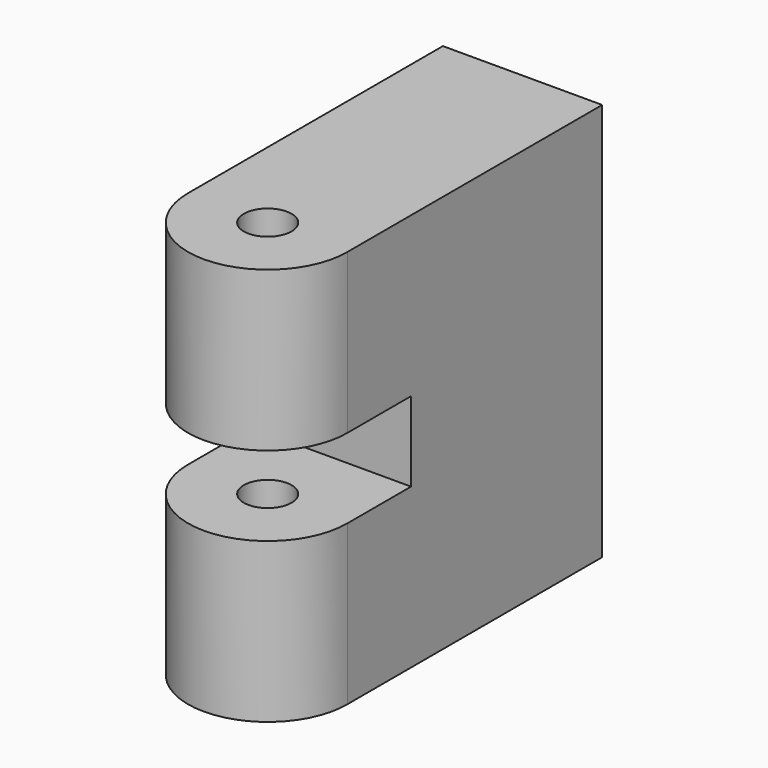
from build123d import *

# Parameters (mm, degrees)
F1_DEPTH = 25
F2_W     = 15
F2_H     = 5
F3_DEPTH = 12.5


with BuildPart() as f1:
    # F0 (on Top) → F1 (new body)
    with BuildSketch(Plane.XY):
        with BuildLine():
            Line((1.5, 0), (5, 0))
            ThreePointArc((5, 0), (0, 5), (-5, 0))
            Line((-5, 0), (-1.5, 0))
            ThreePointArc((-1.5, 0), (0, 1.5), (1.5, 0))
        make_face()
        with BuildLine():
            ThreePointArc((-5, 0), (0, -5), (5, 0))
            Line((5, 0), (1.5, 0))
            ThreePointArc((1.5, 0), (0, -1.5), (-1.5, 0))
            Line((-1.5, 0), (-5, 0))
        make_face()
        with BuildLine():
            ThreePointArc((-5, 0), (0, 5), (5, 0))
            Line((5, 0), (5, 20))
            Line((5, 20), (-5, 20))
            Line((-5, 20), (-5, 0))
        make_face()
    extrude(amount=F1_DEPTH)

    # F2 (on face) → F3 (cut, symmetric)
    with BuildSketch(Plane.YZ.offset(5)):
        with Locations((-2.5, 12.5)):
            Rectangle(F2_W, F2_H)
    extrude(amount=F3_DEPTH, both=True, mode=Mode.SUBTRACT)


solid = f1.part
